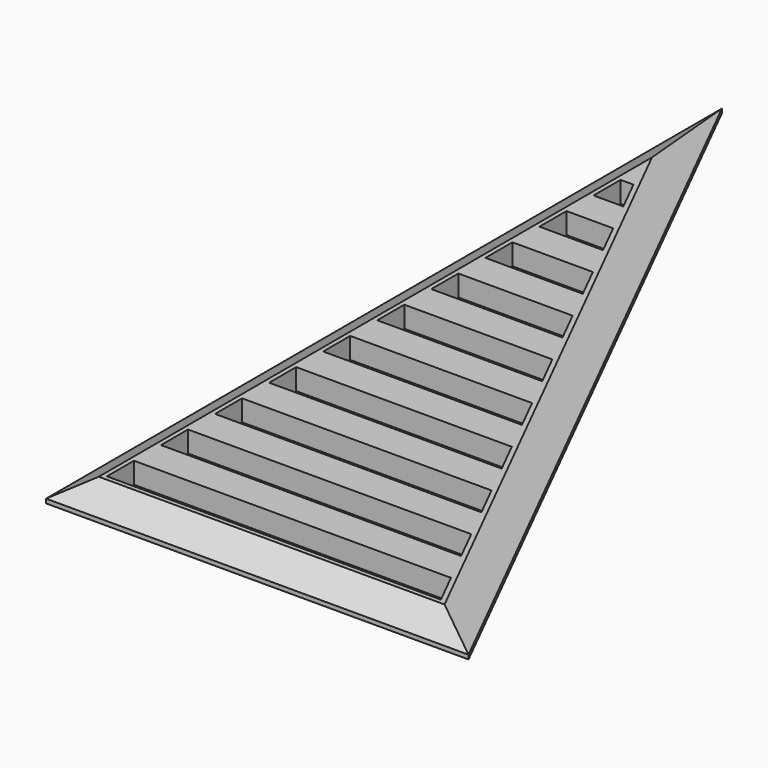
from build123d import *

# Parameters (mm, degrees)
F1_DEPTH = 2.5
F2_SIZE2 = 3.464102
F2_SIZE  = 2


with BuildPart() as f1:
    # F0 (on Top) → F1 (new body)
    with BuildSketch(Plane.XY):
        Polygon((0, 100), (0, 0), (50, 0), align=None)
        Polygon((43.527864, 4), (4, 4), (4, 8), (41.527864, 8), align=None, mode=Mode.SUBTRACT)
        Polygon((4, 12), (4, 16), (37.527864, 16), (39.527864, 12), align=None, mode=Mode.SUBTRACT)
        Polygon((4, 20), (4, 24), (33.527864, 24), (35.527864, 20), align=None, mode=Mode.SUBTRACT)
        Polygon((4, 28), (4, 32), (29.527864, 32), (31.527864, 28), align=None, mode=Mode.SUBTRACT)
        Polygon((4, 36), (4, 40), (25.527864, 40), (27.527864, 36), align=None, mode=Mode.SUBTRACT)
        Polygon((4, 44), (4, 48), (21.527864, 48), (23.527864, 44), align=None, mode=Mode.SUBTRACT)
        Polygon((4, 52), (4, 56), (17.527864, 56), (19.527864, 52), align=None, mode=Mode.SUBTRACT)
        Polygon((4, 60), (4, 64), (13.527864, 64), (15.527864, 60), align=None, mode=Mode.SUBTRACT)
        Polygon((4, 68), (4, 72), (9.527864, 72), (11.527864, 68), align=None, mode=Mode.SUBTRACT)
        Polygon((4, 80), (5.527864, 80), (7.527864, 76), (4, 76), align=None, mode=Mode.SUBTRACT)
    extrude(amount=F1_DEPTH)

    # F2
    f2_edges = [f1.edges().sort_by_distance(p)[0] for p in [
        (0, 50, 2.5),
        (25, 50, 2.5),
        (25, 0, 2.5),
    ]]
    chamfer(f2_edges, length=F2_SIZE, length2=F2_SIZE2)


solid = f1.part
